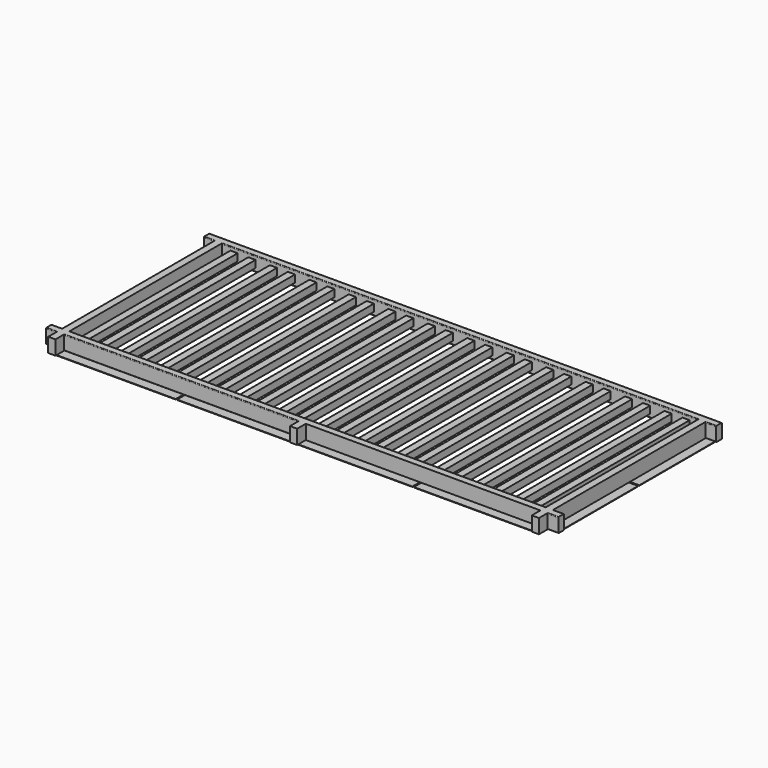
from build123d import *

# Parameters (mm, degrees)
F0_W          = 75
F0_H          = 50
F0_W_2        = 50
F0_W_3        = 3320
F0_H_2        = 1325
F0_H_3        = 75
F1_DEPTH      = 75
F1_DEPTH_BACK = 25
F2_R          = 5
F3_W          = 50
F3_H          = 1325
F4_DEPTH      = 50
F5_W          = 85
F5_H          = 677.5
F5_W_2        = 850
F5_H_2        = 85
F5_W_3        = 815
F6_DEPTH      = 3


with BuildPart() as f1:
    # F0 (on Top) → F1 (new body, two sides)
    with BuildSketch(Plane.XY) as f1_sk:
        with Locations((37.5, 1475)):
            Rectangle(F0_W, F0_H)
        with Locations((100, 1475)):
            Rectangle(F0_W_2, F0_H)
        with Locations((1785, 1475)):
            Rectangle(F0_W_3, F0_H)
        with Locations((100, 787.5)):
            Rectangle(F0_W_2, F0_H_2)
        with Locations((3470, 1475)):
            Rectangle(F0_W_2, F0_H)
        with Locations((37.5, 100)):
            Rectangle(F0_W, F0_H)
        with Locations((100, 100)):
            Rectangle(F0_W_2, F0_H)
        with Locations((3532.5, 1475)):
            Rectangle(F0_W, F0_H)
        with Locations((3470, 787.5)):
            Rectangle(F0_W_2, F0_H_2)
        Polygon((3445, 125), (125, 125), (125, 75), (1760, 75), (1810, 75), (3445, 75), align=None)
        with Locations((100, 37.5)):
            Rectangle(F0_W_2, F0_H_3)
        with Locations((3470, 100)):
            Rectangle(F0_W_2, F0_H)
        with Locations((3532.5, 100)):
            Rectangle(F0_W, F0_H)
        with Locations((3470, 37.5)):
            Rectangle(F0_W_2, F0_H_3)
        with Locations((1785, 37.5)):
            Rectangle(F0_W_2, F0_H_3)
    extrude(amount=F1_DEPTH)
    extrude(f1_sk.sketch, amount=-F1_DEPTH_BACK)

    # F2
    f2_edges = [f1.edges().sort_by_distance(p)[0] for p in [
        (1785, 1450, 75),
        (1785, 1500, 75),
        (1785, 125, 75),
        (942.5, 75, 75),
        (37.5, 75, 75),
        (37.5, 125, 75),
        (3532.5, 125, 75),
        (3532.5, 75, 75),
        (3532.5, 1450, 75),
        (37.5, 1450, 75),
        (1785, 1500, -25),
        (1785, 1450, -25),
        (3532.5, 1450, -25),
        (3532.5, 75, -25),
        (3532.5, 125, -25),
        (1785, 125, -25),
        (942.5, 75, -25),
        (37.5, 125, -25),
        (37.5, 75, -25),
        (37.5, 1450, -25),
    ]]
    fillet(f2_edges, radius=F2_R)

    # F5 (on face) → F6 (join)
    with BuildSketch(Plane(origin=(0, 0, -25), x_dir=(1, 0, 0), z_dir=(0, 0, -1))):
        with Locations((3517.5, -1131.25)):
            Rectangle(F5_W, F5_H)
        with Locations((3517.5, -443.75)):
            Rectangle(F5_W, F5_H)
        with Locations((52.5, -1131.25)):
            Rectangle(F5_W, F5_H)
        with Locations((52.5, -443.75)):
            Rectangle(F5_W, F5_H)
        with Locations((3040, -52.5)):
            Rectangle(F5_W_2, F5_H_2)
        with Locations((2197.5, -52.5)):
            Rectangle(F5_W_3, F5_H_2)
        with Locations((530, -52.5)):
            Rectangle(F5_W_2, F5_H_2)
        with Locations((1372.5, -52.5)):
            Rectangle(F5_W_3, F5_H_2)
    extrude(amount=F6_DEPTH)


with BuildPart() as f4:
    # F3 (on Top) → F4 (new body)
    with BuildSketch(Plane.XY):
        with Locations((210, 787.5)):
            Rectangle(F3_W, F3_H)
    extrude(amount=F4_DEPTH)


with BuildPart() as f4b:
    # F3 (on Top) → F4, piece 2 (new body)
    with BuildSketch(Plane.XY):
        with Locations((335, 787.5)):
            Rectangle(F3_W, F3_H)
    extrude(amount=F4_DEPTH)


with BuildPart() as f4c:
    # F3 (on Top) → F4, piece 3 (new body)
    with BuildSketch(Plane.XY):
        with Locations((610, 787.5)):
            Rectangle(F3_W, F3_H)
    extrude(amount=F4_DEPTH)


with BuildPart() as f4d:
    # F3 (on Top) → F4, piece 4 (new body)
    with BuildSketch(Plane.XY):
        with Locations((485, 787.5)):
            Rectangle(F3_W, F3_H)
    extrude(amount=F4_DEPTH)


with BuildPart() as f4e:
    # F3 (on Top) → F4, piece 5 (new body)
    with BuildSketch(Plane.XY):
        with Locations((885, 787.5)):
            Rectangle(F3_W, F3_H)
    extrude(amount=F4_DEPTH)


with BuildPart() as f4f:
    # F3 (on Top) → F4, piece 6 (new body)
    with BuildSketch(Plane.XY):
        with Locations((760, 787.5)):
            Rectangle(F3_W, F3_H)
    extrude(amount=F4_DEPTH)


with BuildPart() as f4g:
    # F3 (on Top) → F4, piece 7 (new body)
    with BuildSketch(Plane.XY):
        with Locations((1160, 787.5)):
            Rectangle(F3_W, F3_H)
    extrude(amount=F4_DEPTH)


with BuildPart() as f4h:
    # F3 (on Top) → F4, piece 8 (new body)
    with BuildSketch(Plane.XY):
        with Locations((1035, 787.5)):
            Rectangle(F3_W, F3_H)
    extrude(amount=F4_DEPTH)


with BuildPart() as f4i:
    # F3 (on Top) → F4, piece 9 (new body)
    with BuildSketch(Plane.XY):
        with Locations((1435, 787.5)):
            Rectangle(F3_W, F3_H)
    extrude(amount=F4_DEPTH)


with BuildPart() as f4j:
    # F3 (on Top) → F4, piece 10 (new body)
    with BuildSketch(Plane.XY):
        with Locations((1310, 787.5)):
            Rectangle(F3_W, F3_H)
    extrude(amount=F4_DEPTH)


with BuildPart() as f4k:
    # F3 (on Top) → F4, piece 11 (new body)
    with BuildSketch(Plane.XY):
        with Locations((1710, 787.5)):
            Rectangle(F3_W, F3_H)
    extrude(amount=F4_DEPTH)


with BuildPart() as f4l:
    # F3 (on Top) → F4, piece 12 (new body)
    with BuildSketch(Plane.XY):
        with Locations((1585, 787.5)):
            Rectangle(F3_W, F3_H)
    extrude(amount=F4_DEPTH)


with BuildPart() as f4m:
    # F3 (on Top) → F4, piece 13 (new body)
    with BuildSketch(Plane.XY):
        with Locations((1985, 787.5)):
            Rectangle(F3_W, F3_H)
    extrude(amount=F4_DEPTH)


with BuildPart() as f4n:
    # F3 (on Top) → F4, piece 14 (new body)
    with BuildSketch(Plane.XY):
        with Locations((1860, 787.5)):
            Rectangle(F3_W, F3_H)
    extrude(amount=F4_DEPTH)


with BuildPart() as f4o:
    # F3 (on Top) → F4, piece 15 (new body)
    with BuildSketch(Plane.XY):
        with Locations((2260, 787.5)):
            Rectangle(F3_W, F3_H)
    extrude(amount=F4_DEPTH)


with BuildPart() as f4p:
    # F3 (on Top) → F4, piece 16 (new body)
    with BuildSketch(Plane.XY):
        with Locations((2135, 787.5)):
            Rectangle(F3_W, F3_H)
    extrude(amount=F4_DEPTH)


with BuildPart() as f4q:
    # F3 (on Top) → F4, piece 17 (new body)
    with BuildSketch(Plane.XY):
        with Locations((2535, 787.5)):
            Rectangle(F3_W, F3_H)
    extrude(amount=F4_DEPTH)


with BuildPart() as f4r:
    # F3 (on Top) → F4, piece 18 (new body)
    with BuildSketch(Plane.XY):
        with Locations((2410, 787.5)):
            Rectangle(F3_W, F3_H)
    extrude(amount=F4_DEPTH)


with BuildPart() as f4s:
    # F3 (on Top) → F4, piece 19 (new body)
    with BuildSketch(Plane.XY):
        with Locations((2810, 787.5)):
            Rectangle(F3_W, F3_H)
    extrude(amount=F4_DEPTH)


with BuildPart() as f4t:
    # F3 (on Top) → F4, piece 20 (new body)
    with BuildSketch(Plane.XY):
        with Locations((2685, 787.5)):
            Rectangle(F3_W, F3_H)
    extrude(amount=F4_DEPTH)


with BuildPart() as f4u:
    # F3 (on Top) → F4, piece 21 (new body)
    with BuildSketch(Plane.XY):
        with Locations((3085, 787.5)):
            Rectangle(F3_W, F3_H)
    extrude(amount=F4_DEPTH)


with BuildPart() as f4v:
    # F3 (on Top) → F4, piece 22 (new body)
    with BuildSketch(Plane.XY):
        with Locations((2960, 787.5)):
            Rectangle(F3_W, F3_H)
    extrude(amount=F4_DEPTH)


with BuildPart() as f4w:
    # F3 (on Top) → F4, piece 23 (new body)
    with BuildSketch(Plane.XY):
        with Locations((3360, 787.5)):
            Rectangle(F3_W, F3_H)
    extrude(amount=F4_DEPTH)


with BuildPart() as f4x:
    # F3 (on Top) → F4, piece 24 (new body)
    with BuildSketch(Plane.XY):
        with Locations((3235, 787.5)):
            Rectangle(F3_W, F3_H)
    extrude(amount=F4_DEPTH)


solid = Compound([f1.part, f4.part, f4b.part, f4c.part, f4d.part, f4e.part, f4f.part, f4g.part, f4h.part, f4i.part, f4j.part, f4k.part, f4l.part, f4m.part, f4n.part, f4o.part, f4p.part, f4q.part, f4r.part, f4s.part, f4t.part, f4u.part, f4v.part, f4w.part, f4x.part])
